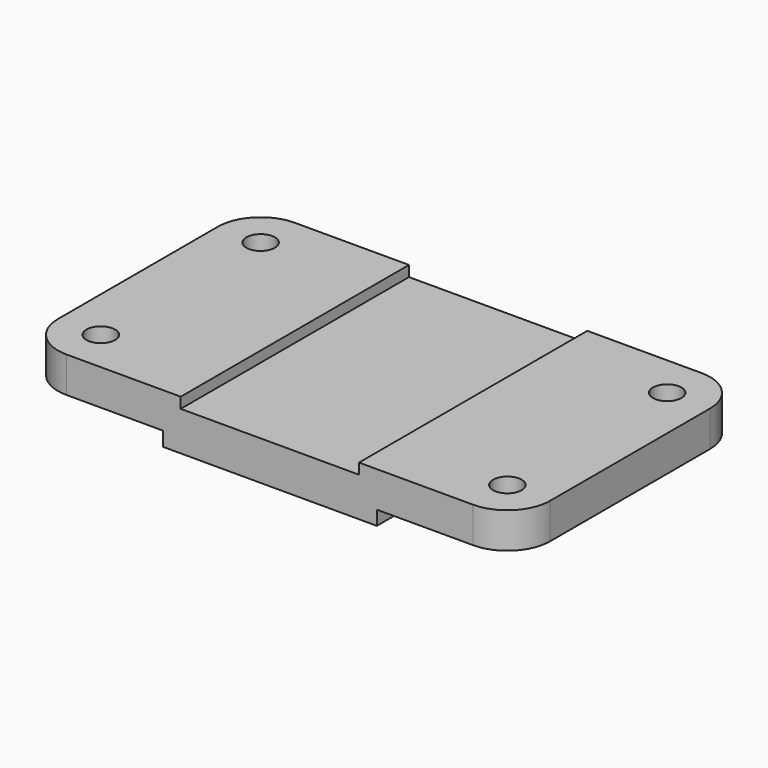
from build123d import *

# Parameters (mm, degrees)
F1_DEPTH = 40
F2_R     = 4
F3_DEPTH = 40


with BuildPart() as f1:
    # F0 (on Front) → F1 (new body, symmetric)
    with BuildSketch(Plane.XZ):
        Polygon((-69, 5), (-69, -5), (-30, -5), (-30, -9), (30, -9), (30, -5), (69, -5), (69, 5), (25, 5), (25, 2), (-25, 2), (-25, 5), align=None)
    extrude(amount=F1_DEPTH, both=True)

    # F2 (on Top) → F3 (cut, symmetric)
    with BuildSketch(Plane.XY):
        with BuildLine():
            ThreePointArc((-69, 28), (-65.485281, 36.485281), (-57, 40))
            Line((-57, 40), (-69, 40))
            Line((-69, 40), (-69, 28))
        make_face()
        with BuildLine():
            ThreePointArc((-57, -40), (-65.485281, -36.485281), (-69, -28))
            Line((-69, -28), (-69, -40))
            Line((-69, -40), (-57, -40))
        make_face()
        with BuildLine():
            ThreePointArc((69, -28), (65.485281, -36.485281), (57, -40))
            Line((57, -40), (69, -40))
            Line((69, -40), (69, -28))
        make_face()
        with BuildLine():
            ThreePointArc((57, 40), (65.485281, 36.485281), (69, 28))
            Line((69, 28), (69, 40))
            Line((69, 40), (57, 40))
        make_face()
        with Locations((-57, 28)):
            Circle(F2_R)
        with Locations((57, 28)):
            Circle(F2_R)
        with Locations((57, -28)):
            Circle(F2_R)
        with Locations((-57, -28)):
            Circle(F2_R)
    extrude(amount=F3_DEPTH, both=True, mode=Mode.SUBTRACT)


solid = f1.part
